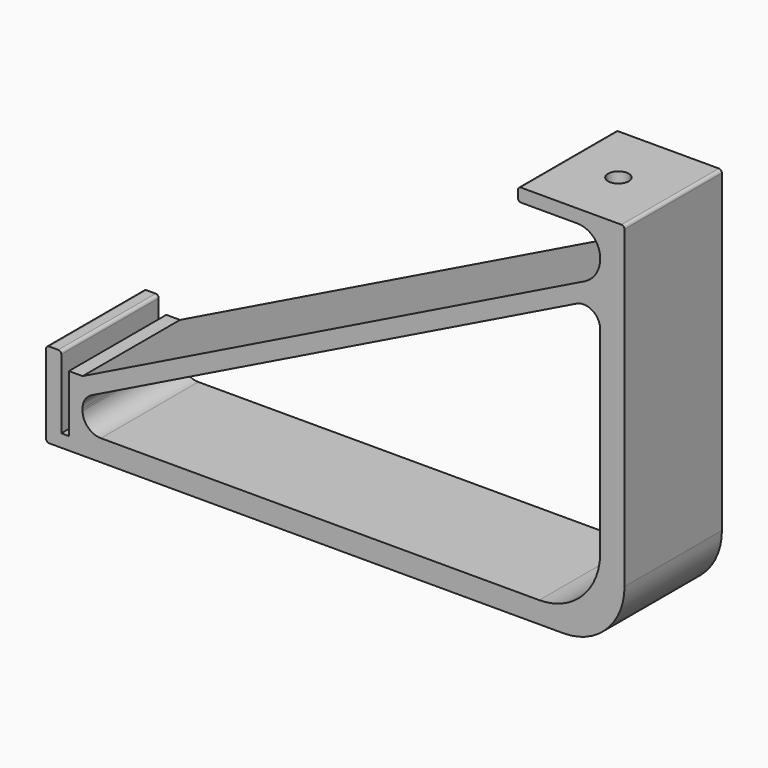
from build123d import *

# Parameters (mm, degrees)
F1_DEPTH = 20
F3_R     = 3.4
F4_DEPTH = 10


with BuildPart() as f1:
    # F0 (on Front) → F1 (new body, symmetric)
    with BuildSketch(Plane.XZ):
        with BuildLine():
            Line((156, 120), (174.5, 120))
            ThreePointArc((174.5, 120), (179.803301, 117.803301), (182, 112.5))
            Line((182, 112.5), (182, 112.154116))
            ThreePointArc((182, 112.154116), (180.639604, 107.396338), (176.969679, 104.076885))
            Line((176.969679, 104.076885), (12, 23))
            Line((12, 23), (7.5, 23))
            Line((7.5, 23), (7.5, 4.2))
            Line((7.5, 4.2), (5, 4.2))
            Line((5, 4.2), (5, 27))
            ThreePointArc((5, 27), (4.707107, 27.707107), (4, 28))
            Line((4, 28), (1, 28))
            ThreePointArc((1, 28), (0.292893, 27.707107), (0, 27))
            Line((0, 27), (0, 1))
            ThreePointArc((0, 1), (0.292893, 0.292893), (1, 0))
            Line((1, 0), (170, 0))
            ThreePointArc((170, 0), (184.142136, 5.857864), (190, 20))
            Line((190, 20), (190, 120))
            Line((190, 120), (190, 123.35))
            ThreePointArc((190, 123.35), (189.707107, 124.057107), (189, 124.35))
            Line((189, 124.35), (156, 124.35))
            ThreePointArc((156, 124.35), (155.292893, 124.057107), (155, 123.35))
            Line((155, 123.35), (155, 121))
            ThreePointArc((155, 121), (155.292893, 120.292893), (156, 120))
        make_face()
        with BuildLine():
            Line((182, 91.865893), (182, 27))
            ThreePointArc((182, 27), (176.142136, 12.857864), (162, 7))
            Line((162, 7), (22, 7))
            Line((22, 7), (18, 7))
            ThreePointArc((18, 7), (13.757359, 8.757359), (12, 13))
            Line((12, 13), (12, 13.624605))
            ThreePointArc((12, 13.624605), (12.816237, 16.479272), (15.018193, 18.470944))
            Line((15.018193, 18.470944), (174.218193, 96.712231))
            ThreePointArc((174.218193, 96.712231), (179.454666, 96.449656), (182, 91.865893))
        make_face(mode=Mode.SUBTRACT)
    extrude(amount=F1_DEPTH, both=True)

    # F3 (on offset) → F4 (cut)
    with BuildSketch(Plane.XY.offset(125)):
        with Locations((172, 0)):
            Circle(F3_R)
    extrude(amount=-F4_DEPTH, mode=Mode.SUBTRACT)


solid = f1.part
